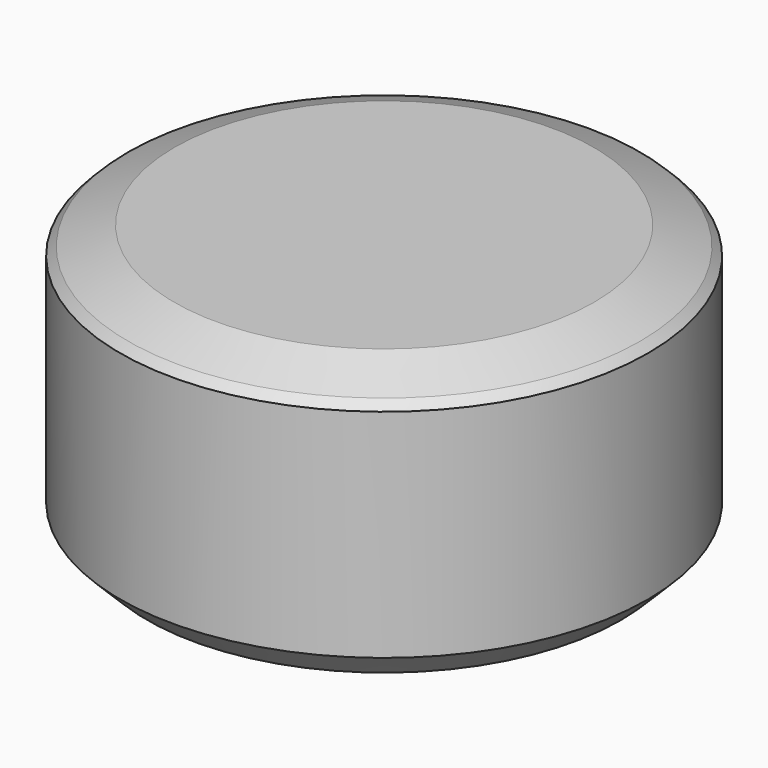
from build123d import *

# Parameters (mm, degrees)
F0_R     = 49.507556
F1_DEPTH = 50.8
F2_SIZE  = 5.08
F3_SIZE  = 5.08


with BuildPart() as f1:
    # F0 (on Top) → F1 (new body)
    with BuildSketch(Plane.XY):
        Circle(F0_R)
    extrude(amount=F1_DEPTH)

    # F2
    f2_edges = [f1.edges().sort_by_distance(p)[0] for p in [
        (-49.507556, 0, 50.8),
        (-49.507556, 0, 0),
    ]]
    chamfer(f2_edges, length=F2_SIZE)

    # F3
    f3_edges = [f1.edges().sort_by_distance(p)[0] for p in [
        (-44.427556, 0, 50.8),
    ]]
    chamfer(f3_edges, length=F3_SIZE)


solid = f1.part
